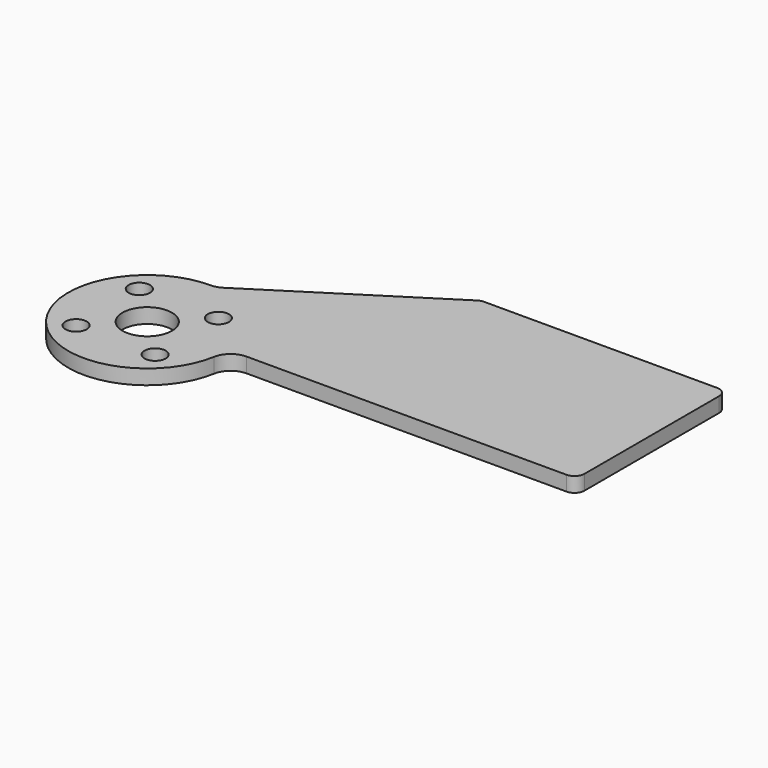
from build123d import *

# Parameters (mm, degrees)
SKETCH_R   = 2.15
SKETCH_R_2 = 5
PAD_DEPTH  = 3


with BuildPart() as part:
    # Sketch → Pad (new body)
    with BuildSketch(Plane.XY):
        with BuildLine():
            Line((36.7, 0.5), (84.5, 0.5))
            ThreePointArc((84.5, 0.5), (85.914214, 1.085786), (86.5, 2.5))
            Line((86.5, 2.5), (86.5, 36.6))
            ThreePointArc((86.5, 36.6), (85.914214, 38.014214), (84.5, 38.6))
            Line((84.5, 38.6), (37.282104, 38.6))
            ThreePointArc((37.282104, 38.6), (36.723192, 38.520317), (36.208816, 38.287617))
            Line((2.146577, 16.624765), (36.208816, 38.287617))
            ThreePointArc((0, 16), (1.117824, 16.159366), (2.146577, 16.624765))
            ThreePointArc((0, 16), (-12.263768, -10.276186), (15.753095, -2.8))
            ThreePointArc((19.691369, 0.5), (17.122322, -0.434058), (15.753095, -2.8))
            Line((36.7, 0.5), (19.691369, 0.5))
        make_face()
        with Locations((-8, 8)):
            Circle(SKETCH_R, mode=Mode.SUBTRACT)
        with Locations((8, 8)):
            Circle(SKETCH_R, mode=Mode.SUBTRACT)
        with Locations((-8, -8)):
            Circle(SKETCH_R, mode=Mode.SUBTRACT)
        with Locations((8, -8)):
            Circle(SKETCH_R, mode=Mode.SUBTRACT)
        Circle(SKETCH_R_2, mode=Mode.SUBTRACT)
    extrude(amount=PAD_DEPTH)


solid = part.part
